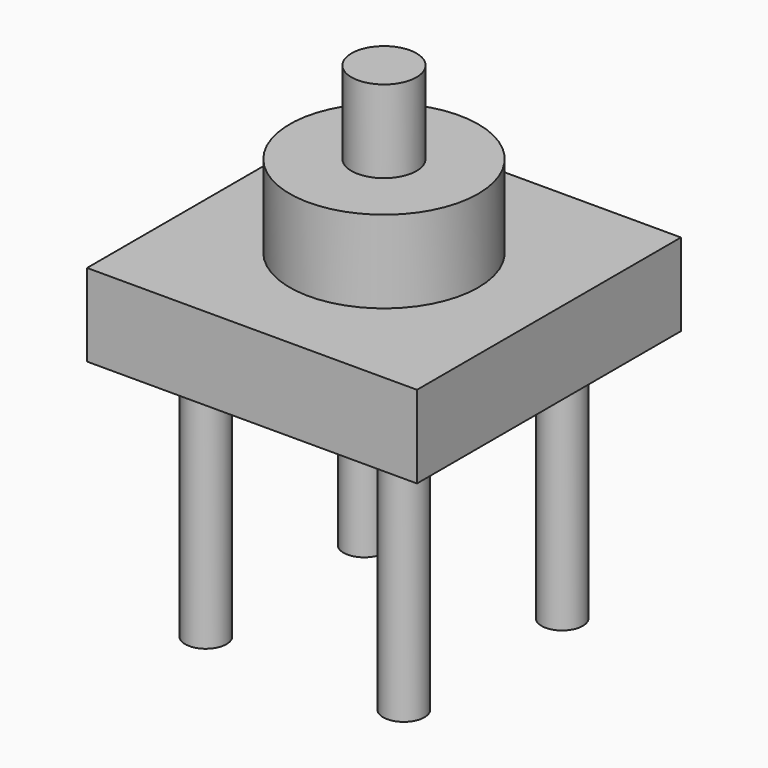
from build123d import *

# Parameters (mm, degrees)
F0_W     = 101.6
F0_H     = 101.6
F1_DEPTH = 25.4
F2_R     = 29.031913
F3_DEPTH = 25.4
F4_R     = 6.35
F5_DEPTH = 76.2
F6_R     = 10.005143
F7_DEPTH = 25.4


with BuildPart() as f1:
    # F0 (on Top) → F1 (new body)
    with BuildSketch(Plane.XY):
        Rectangle(F0_W, F0_H)
    extrude(amount=F1_DEPTH)

    # F2 (on face) → F3 (join)
    with BuildSketch(Plane.XY.offset(25.4)):
        Circle(F2_R)
    extrude(amount=F3_DEPTH)

    # F4 (on face) → F5 (join)
    with BuildSketch(Plane(origin=(0, 0, 0), x_dir=(1, 0, 0), z_dir=(0, 0, -1))):
        with Locations((-30.48, 30.48)):
            Circle(F4_R)
        with Locations((30.48, 30.48)):
            Circle(F4_R)
        with Locations((30.48, -30.48)):
            Circle(F4_R)
        with Locations((-30.48, -30.48)):
            Circle(F4_R)
    extrude(amount=F5_DEPTH)

    # F6 (on face) → F7 (join)
    with BuildSketch(Plane.XY.offset(50.8)):
        Circle(F6_R)
    extrude(amount=F7_DEPTH)


solid = f1.part
